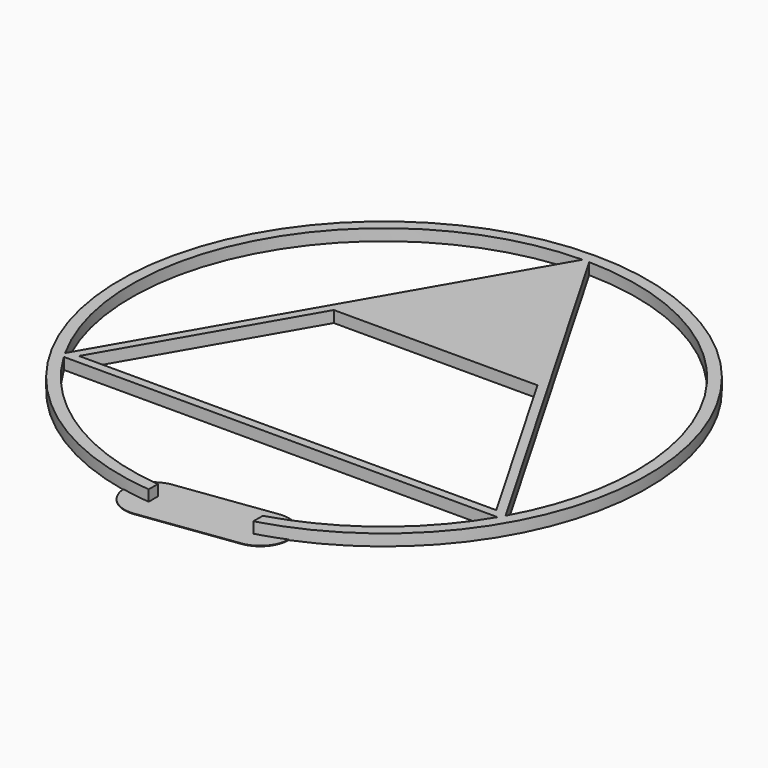
from build123d import *

# Parameters (mm, degrees)
F0_R     = 46
F1_DEPTH = 1
F2_W     = 17
F2_H     = 23.0149852611
F3_DEPTH = 12.5
F5_START = -0.9
F5_DEPTH = 0.1


with BuildPart() as f1:
    # F0 (on Top) → F1 (new body, symmetric)
    with BuildSketch(Plane.XY):
        Circle(F0_R)
        with BuildLine():
            ThreePointArc((0, 45), (31.8198051534, 31.8198051534), (45, 0))
            ThreePointArc((45, 0), (43.466662183, -11.6468570296), (38.9711431703, -22.5))
            ThreePointArc((38.9711431703, -22.5), (0, -45), (-38.9711431703, -22.5))
            ThreePointArc((-38.9711431703, -22.5), (-38.9711431703, 22.5), (0, 45))
        make_face(mode=Mode.SUBTRACT)
        with BuildLine():
            Line((-0.5795540246, 43.9961829837), (0, 45))
            ThreePointArc((0, 45), (-38.9711431703, 22.5), (-38.9711431703, -22.5))
            Line((-38.9711431703, -22.5), (-38.3915891457, -21.4961829837))
            ThreePointArc((-38.3915891457, -21.4961829837), (-38.1051177665, 22), (-0.5795540246, 43.9961829837))
        make_face()
        with BuildLine():
            ThreePointArc((37.8120351211, -22.5), (38.1051177665, -22), (38.3915891457, -21.4961829837))
            Line((38.3915891457, -21.4961829837), (19.4855715851, 11.25))
            Line((19.4855715851, 11.25), (17.7535207776, 11.25))
            Line((17.7535207776, 11.25), (36.3730669589, -21))
            Line((36.3730669589, -21), (-36.3730669589, -21))
            Line((-36.3730669589, -21), (-17.7535207776, 11.25))
            Line((-17.7535207776, 11.25), (-19.4855715851, 11.25))
            Line((-19.4855715851, 11.25), (-38.3915891457, -21.4961829837))
            ThreePointArc((-38.3915891457, -21.4961829837), (-38.1051177665, -22), (-37.8120351211, -22.5))
            Line((-37.8120351211, -22.5), (37.8120351211, -22.5))
        make_face()
        with BuildLine():
            Line((19.4855715851, 11.25), (0.5795540246, 43.9961829837))
            ThreePointArc((0.5795540246, 43.9961829837), (0, 44), (-0.5795540246, 43.9961829837))
            Line((-0.5795540246, 43.9961829837), (-19.4855715851, 11.25))
            Line((-19.4855715851, 11.25), (-17.7535207776, 11.25))
            Line((-17.7535207776, 11.25), (0, 42))
            Line((0, 42), (17.7535207776, 11.25))
            Line((17.7535207776, 11.25), (19.4855715851, 11.25))
        make_face()
        with BuildLine():
            ThreePointArc((38.9711431703, -22.5), (43.466662183, -11.6468570296), (45, 0))
            ThreePointArc((45, 0), (31.8198051534, 31.8198051534), (0, 45))
            Line((0, 45), (0.5795540246, 43.9961829837))
            ThreePointArc((0.5795540246, 43.9961829837), (31.3169313398, 30.9071158709), (44, 0))
            ThreePointArc((44, 0), (42.5748160443, -11.107881832), (38.3915891457, -21.4961829837))
            Line((38.3915891457, -21.4961829837), (38.9711431703, -22.5))
        make_face()
        with BuildLine():
            ThreePointArc((-38.9711431703, -22.5), (0, -45), (38.9711431703, -22.5))
            Line((38.9711431703, -22.5), (37.8120351211, -22.5))
            ThreePointArc((37.8120351211, -22.5), (0, -44), (-37.8120351211, -22.5))
            Line((-37.8120351211, -22.5), (-38.9711431703, -22.5))
        make_face()
        with BuildLine():
            Line((37.8120351211, -22.5), (38.9711431703, -22.5))
            Line((38.9711431703, -22.5), (38.3915891457, -21.4961829837))
            ThreePointArc((38.3915891457, -21.4961829837), (38.1051177665, -22), (37.8120351211, -22.5))
        make_face()
        with BuildLine():
            Line((0.5795540246, 43.9961829837), (0, 45))
            Line((0, 45), (-0.5795540246, 43.9961829837))
            ThreePointArc((-0.5795540246, 43.9961829837), (0, 44), (0.5795540246, 43.9961829837))
        make_face()
        with BuildLine():
            Line((-38.3915891457, -21.4961829837), (-38.9711431703, -22.5))
            Line((-38.9711431703, -22.5), (-37.8120351211, -22.5))
            ThreePointArc((-37.8120351211, -22.5), (-38.1051177665, -22), (-38.3915891457, -21.4961829837))
        make_face()
        with BuildLine():
            ThreePointArc((37.8120351211, -22.5), (38.1051177665, -22), (38.3915891457, -21.4961829837))
            Line((38.3915891457, -21.4961829837), (19.4855715851, 11.25))
            Line((19.4855715851, 11.25), (17.7535207776, 11.25))
            Line((17.7535207776, 11.25), (36.3730669589, -21))
            Line((36.3730669589, -21), (-36.3730669589, -21))
            Line((-36.3730669589, -21), (-17.7535207776, 11.25))
            Line((-17.7535207776, 11.25), (-19.4855715851, 11.25))
            Line((-19.4855715851, 11.25), (-38.3915891457, -21.4961829837))
            ThreePointArc((-38.3915891457, -21.4961829837), (-38.1051177665, -22), (-37.8120351211, -22.5))
            Line((-37.8120351211, -22.5), (37.8120351211, -22.5))
        make_face()
        Polygon((-17.7535207776, 11.25), (17.7535207776, 11.25), (0, 42), align=None)
    extrude(amount=F1_DEPTH, both=True)

    # F2 (on Top) → F3 (cut, symmetric)
    with BuildSketch(Plane.XY):
        with Locations((4.1, -46.7491300095)):
            Rectangle(F2_W, F2_H)
    extrude(amount=F3_DEPTH, both=True, mode=Mode.SUBTRACT)

    # F4 (on Top) → F5 (join)
    with BuildSketch(Plane.XY.offset(F5_START)):
        with BuildLine():
            ThreePointArc((-3.73206699, -49.7394501678), (-0.6357162003, -48.0751864298), (0.6, -44.7842644504))
            ThreePointArc((0.6, -44.7842644504), (-1.1090780205, -41.0199806506), (-5.06793301, -39.8290787329))
            ThreePointArc((-5.06793301, -39.8290787329), (-9.3551857174, -45.4521974603), (-3.73206699, -49.7394501678))
        make_face()
        with BuildLine():
            ThreePointArc((-5.06793301, -39.8290787329), (-1.1090780205, -41.0199806506), (0.6, -44.7842644504))
            ThreePointArc((0.6, -44.7842644504), (-0.6357162003, -48.0751864298), (-3.73206699, -49.7394501678))
            Line((-3.73206699, -49.7394501678), (13.1197539442, -47.4679132119))
            ThreePointArc((13.1197539442, -47.4679132119), (7.4966352168, -43.1806605044), (11.7838879242, -37.557541777))
            Line((11.7838879242, -37.557541777), (-5.06793301, -39.8290787329))
        make_face()
        with BuildLine():
            ThreePointArc((17.4518209342, -42.5127274945), (15.7427429137, -38.7484436947), (11.7838879242, -37.557541777))
            ThreePointArc((11.7838879242, -37.557541777), (7.4966352168, -43.1806605044), (13.1197539442, -47.4679132119))
            ThreePointArc((13.1197539442, -47.4679132119), (16.216104734, -45.8036494739), (17.4518209342, -42.5127274945))
        make_face()
    extrude(amount=-F5_DEPTH)


solid = f1.part
